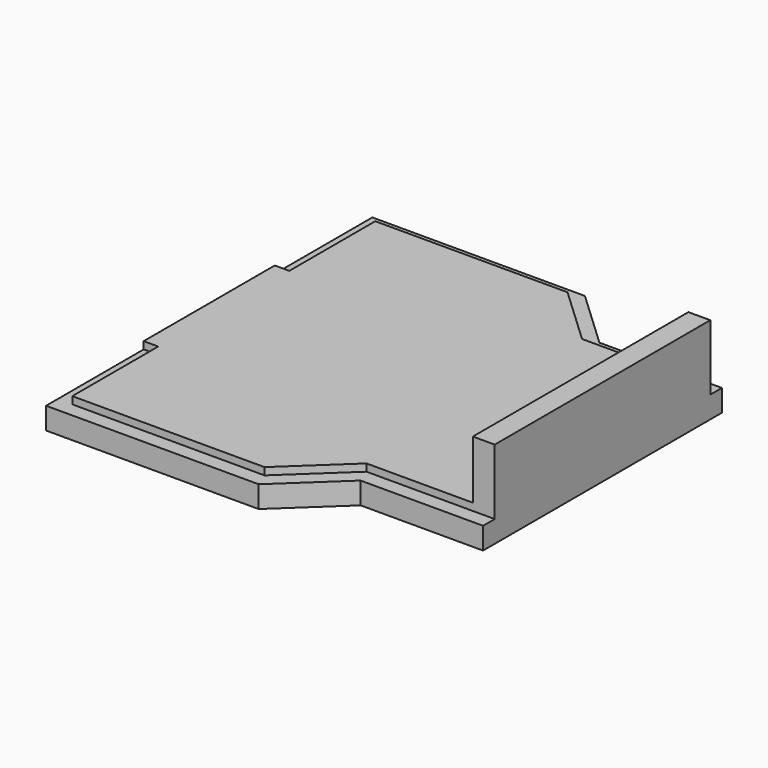
from build123d import *

# Parameters (mm, degrees)
F0_W     = 0.8
F0_H     = 9
F0_W_2   = 1.2
F0_H_2   = 14.8
F1_DEPTH = 1.2
F2_DEPTH = 1.6
F3_DEPTH = 4.8
F4_DEPTH = 1.6


with BuildPart() as f1:
    # F0 (on Top) → F1 (new body)
    with BuildSketch(Plane.XY):
        Polygon((9.289006, -7.4), (9.289006, 7.4), (3.447185, 7.4), (0.247185, 10.4), (-10.310994, 10.4), (-10.310994, 4.5), (-10.310994, -4.5), (-10.310994, -10.4), (0.247185, -10.4), (3.447185, -7.4), align=None)
        with Locations((-10.710994, 0)):
            Rectangle(F0_W, F0_H)
        Polygon((10.489006, -8.2), (10.489006, -7.4), (9.289006, -7.4), (3.447185, -7.4), (0.247185, -10.4), (-10.310994, -10.4), (-10.310994, -4.5), (-11.110994, -4.5), (-11.110994, -11.2), (0.563543, -11.2), (3.763543, -8.2), align=None)
        with Locations((9.889006, 0)):
            Rectangle(F0_W_2, F0_H_2)
        Polygon((10.489006, 8.2), (3.763543, 8.2), (0.563543, 11.2), (-11.110994, 11.2), (-11.110994, 4.5), (-10.310994, 4.5), (-10.310994, 10.4), (0.247185, 10.4), (3.447185, 7.4), (9.289006, 7.4), (10.489006, 7.4), align=None)
    extrude(amount=F1_DEPTH)

    # F0 (on Top) → F2 (join)
    with BuildSketch(Plane.XY):
        with Locations((-10.710994, 0)):
            Rectangle(F0_W, F0_H)
    extrude(amount=F2_DEPTH)

    # F0 (on Top) → F3 (join)
    with BuildSketch(Plane.XY):
        with Locations((9.889006, 0)):
            Rectangle(F0_W_2, F0_H_2)
    extrude(amount=F3_DEPTH)

    # F0 (on Top) → F4 (join)
    with BuildSketch(Plane.XY):
        Polygon((9.289006, -7.4), (9.289006, 7.4), (3.447185, 7.4), (0.247185, 10.4), (-10.310994, 10.4), (-10.310994, 4.5), (-10.310994, -4.5), (-10.310994, -10.4), (0.247185, -10.4), (3.447185, -7.4), align=None)
    extrude(amount=F4_DEPTH)


solid = f1.part
